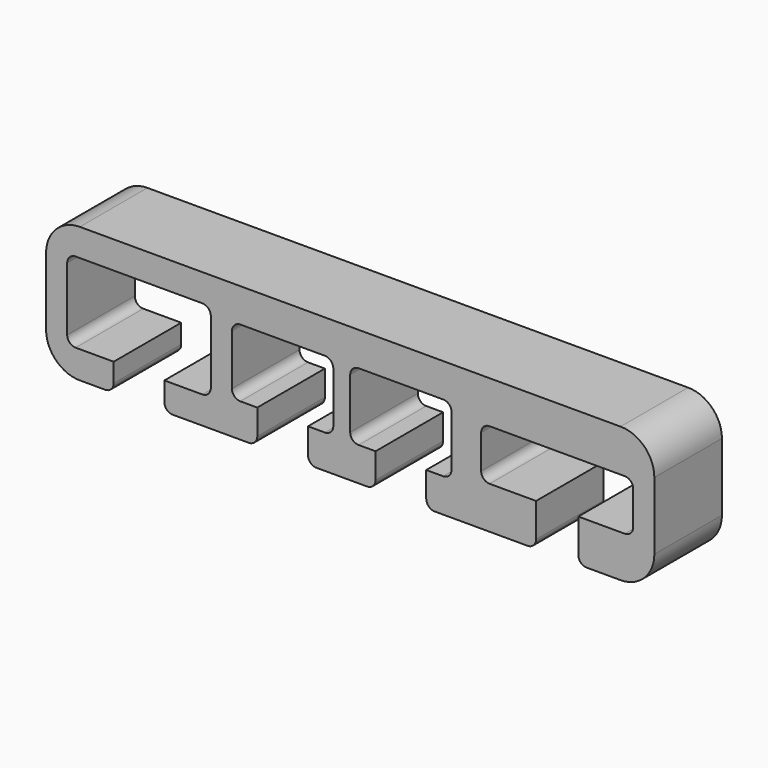
from build123d import *

# Parameters (mm, degrees)
F0_W      = 72
F0_H      = 40
F1_DEPTH  = 16
F3_W      = 17
F3_H      = 9.5
F7_DEPTH  = 35
F4_W      = 12
F4_H      = 8
F8_DEPTH  = 20
F5_W      = 12
F5_H      = 8
F9_DEPTH  = 28
F6_W      = 18
F6_H      = 6
F10_DEPTH = 11
F11_R     = 3.25
F11_R_2   = 3
F12_DEPTH = 40.001
F13_W     = 6
F13_H     = 40
F13_W_2   = 5
F14_DEPTH = 8
F15_R     = 1
F16_R     = 4
F17_W     = 72
F17_H     = 10
F18_DEPTH = 16.001


with BuildPart() as f1:
    # F0 (on Top) → F1 (new body)
    with BuildSketch(Plane.XY):
        Rectangle(F0_W, F0_H)
    extrude(amount=F1_DEPTH)

    # F3 (on face) → F7 (cut)
    with BuildSketch(Plane.XZ.offset(20)):
        with Locations((-25, 8)):
            Rectangle(F3_W, F3_H)
    extrude(amount=-F7_DEPTH, mode=Mode.SUBTRACT)

    # F4 (on face) → F8 (cut)
    with BuildSketch(Plane.XZ.offset(20)):
        with Locations((-8, 8)):
            Rectangle(F4_W, F4_H)
    extrude(amount=-F8_DEPTH, mode=Mode.SUBTRACT)

    # F5 (on face) → F9 (cut)
    with BuildSketch(Plane.XZ.offset(20)):
        with Locations((6, 8)):
            Rectangle(F5_W, F5_H)
    extrude(amount=-F9_DEPTH, mode=Mode.SUBTRACT)

    # F6 (on face) → F10 (cut)
    with BuildSketch(Plane.XZ.offset(20)):
        with Locations((24.5, 8)):
            Rectangle(F6_W, F6_H)
    extrude(amount=-F10_DEPTH, mode=Mode.SUBTRACT)

    # F11 (on face) → F12 (cut, through all)
    with BuildSketch(Plane.XZ.offset(20)):
        with Locations((-25, 8)):
            Circle(F11_R)
        with Locations((-8, 8)):
            Circle(F11_R)
        with Locations((6, 8)):
            Circle(F11_R)
        with Locations((24.5, 8)):
            Circle(F11_R_2)
    extrude(amount=-F12_DEPTH, mode=Mode.SUBTRACT)

    # F13 (on face) → F14 (cut)
    with BuildSketch(Plane(origin=(0, 0, 0), x_dir=(1, 0, 0), z_dir=(0, 0, -1))):
        with Locations((-25, 0)):
            Rectangle(F13_W, F13_H)
        with Locations((-8, 0)):
            Rectangle(F13_W, F13_H)
        with Locations((6, 0)):
            Rectangle(F13_W, F13_H)
        with Locations((24.5, 0)):
            Rectangle(F13_W_2, F13_H)
    extrude(amount=-F14_DEPTH, mode=Mode.SUBTRACT)

    # F15
    f15_edges = [f1.edges().sort_by_distance(p)[0] for p in [
        (33.5, -14.5, 5),
        (33.5, -14.5, 11),
        (12, -6, 12),
        (-2, -10, 12),
        (-16.5, -2.5, 12.75),
        (-33.5, -2.5, 3.25),
        (-14, -10, 4),
        (0, -6, 4),
        (15.5, -14.5, 5),
        (15.5, -14.5, 11),
        (0, -6, 12),
        (-14, -10, 12),
        (-33.5, -2.5, 12.75),
        (12, -6, 4),
        (-2, -10, 4),
        (-16.5, -2.5, 3.25),
        (22, 0, 0),
        (27, 0, 0),
        (3, 0, 0),
        (9, 0, 0),
        (-11, 0, 0),
        (-5, 0, 0),
        (-28, 0, 0),
        (-22, 0, 0),
    ]]
    fillet(f15_edges, radius=F15_R)

    # F16
    f16_edges = [f1.edges().sort_by_distance(p)[0] for p in [
        (36, 0, 0),
        (36, 0, 16),
        (-36, 0, 0),
        (-36, 0, 16),
    ]]
    fillet(f16_edges, radius=F16_R)

    # F17 (on Top) → F18 (intersect, through all)
    with BuildSketch(Plane.XY):
        with Locations((0, -15)):
            Rectangle(F17_W, F17_H)
    extrude(amount=F18_DEPTH, mode=Mode.INTERSECT)


solid = f1.part
